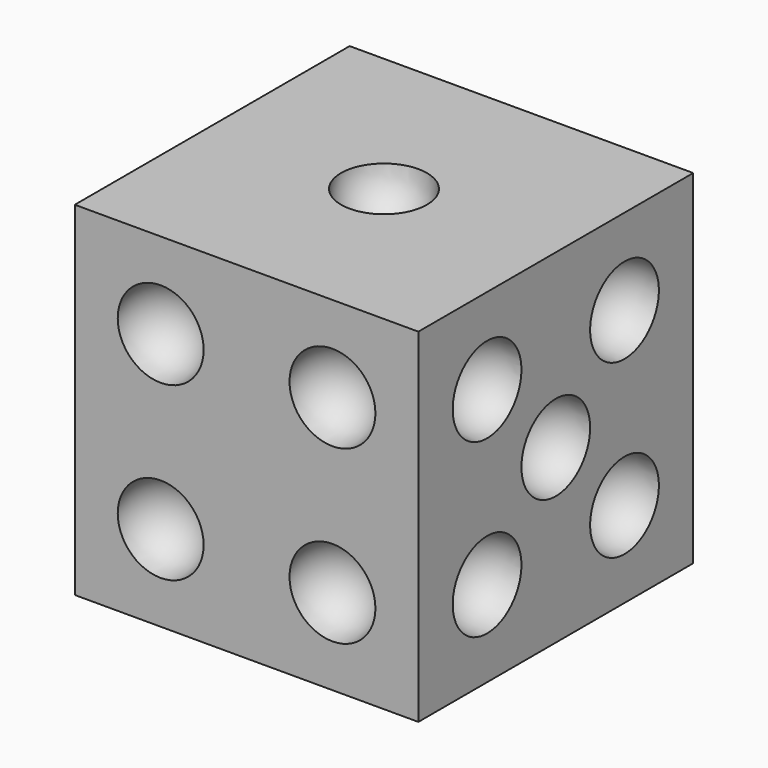
from build123d import *

# Parameters (mm, degrees)
F0_W     = 25.4
F0_H     = 25.4
F1_DEPTH = 25.4


with BuildPart() as f1:
    # F0 (on Top) → F1 (new body)
    with BuildSketch(Plane.XY):
        Rectangle(F0_W, F0_H)
    extrude(amount=F1_DEPTH)

    # F2 (on face) → F3 (revolve, cut)
    with BuildSketch(Plane.XY.offset(25.4)):
        with BuildLine():
            Line((3.175, 0), (-3.175, 0))
            ThreePointArc((-3.175, 0), (0, -3.175), (3.175, 0))
        make_face()
    revolve(axis=Axis((-0.156245, 0, 25.4), (1, 0, 0)), mode=Mode.SUBTRACT)

    # F4 (on face) → F5 (revolve, cut)
    with BuildSketch(Plane(origin=(0, 0, 0), x_dir=(1, 0, 0), z_dir=(0, 0, -1))):
        with BuildLine():
            Line((-4.104936, 4.104936), (-8.595064, 8.595064))
            ThreePointArc((-8.595064, 8.595064), (-8.595064, 4.104936), (-4.104936, 4.104936))
        make_face()
        with BuildLine():
            Line((8.595064, -8.595064), (4.104936, -4.104936))
            ThreePointArc((4.104936, -4.104936), (4.104936, -8.595064), (8.595064, -8.595064))
        make_face()
    revolve(axis=Axis((6.35, 6.35, 0), (0.707107, 0.707107, 0)), mode=Mode.SUBTRACT)

    # F6 (on face) → F7 (revolve, cut)
    with BuildSketch(Plane(origin=(0, 12.7, 0), x_dir=(-1, 0, 0), z_dir=(0, 1, 0))):
        with BuildLine():
            Line((-4.104936, 16.804936), (-8.595064, 21.295064))
            ThreePointArc((-8.595064, 21.295064), (-8.595064, 16.804936), (-4.104936, 16.804936))
        make_face()
        with BuildLine():
            Line((2.245064, 10.454936), (-2.245064, 14.945064))
            ThreePointArc((-2.245064, 14.945064), (-2.245064, 10.454936), (2.245064, 10.454936))
        make_face()
        with BuildLine():
            Line((8.595064, 4.104936), (4.104936, 8.595064))
            ThreePointArc((4.104936, 8.595064), (4.104936, 4.104936), (8.595064, 4.104936))
        make_face()
    revolve(axis=Axis((0, 12.7, 12.7), (-0.707107, 0, -0.707107)), mode=Mode.SUBTRACT)

    # F8 (on face) → F9 (revolve, cut)
    with BuildSketch(Plane.XZ.offset(12.7)):
        with BuildLine():
            ThreePointArc((3.175, 6.35), (6.35, 3.175), (9.525, 6.35))
            Line((9.525, 6.35), (3.175, 6.35))
        make_face()
        with BuildLine():
            Line((-3.175, 6.35), (-9.525, 6.35))
            ThreePointArc((-9.525, 6.35), (-6.35, 3.175), (-3.175, 6.35))
        make_face()
    revolve(axis=Axis((0, -12.7, 6.35), (1, 0, 0)), mode=Mode.SUBTRACT)

    # F8 (on face) → F10 (revolve, cut)
    with BuildSketch(Plane.XZ.offset(12.7)):
        with BuildLine():
            Line((-9.525, 19.05), (-3.175, 19.05))
            ThreePointArc((-3.175, 19.05), (-6.35, 22.225), (-9.525, 19.05))
        make_face()
        with BuildLine():
            ThreePointArc((9.525, 19.05), (6.35, 22.225), (3.175, 19.05))
            Line((3.175, 19.05), (9.525, 19.05))
        make_face()
    revolve(axis=Axis((0, -12.7, 19.05), (-1, 0, 0)), mode=Mode.SUBTRACT)

    # F11 (on face) → F12 (revolve, cut)
    with BuildSketch(Plane.YZ.offset(12.7)):
        with BuildLine():
            Line((-4.104936, 16.804936), (-8.595064, 21.295064))
            ThreePointArc((-8.595064, 21.295064), (-8.595064, 16.804936), (-4.104936, 16.804936))
        make_face()
        with BuildLine():
            Line((2.245064, 10.454936), (-2.245064, 14.945064))
            ThreePointArc((-2.245064, 14.945064), (-2.245064, 10.454936), (2.245064, 10.454936))
        make_face()
        with BuildLine():
            Line((8.595064, 4.104936), (4.104936, 8.595064))
            ThreePointArc((4.104936, 8.595064), (4.104936, 4.104936), (8.595064, 4.104936))
        make_face()
    revolve(axis=Axis((12.7, 0, 12.7), (0, 0.707107, -0.707107)), mode=Mode.SUBTRACT)

    # F11 (on face) → F13 (revolve, cut)
    with BuildSketch(Plane.YZ.offset(12.7)):
        with BuildLine():
            Line((-4.104936, 8.595064), (-8.595064, 4.104936))
            ThreePointArc((-8.595064, 4.104936), (-4.104936, 4.104936), (-4.104936, 8.595064))
        make_face()
        with BuildLine():
            Line((8.595064, 21.295064), (4.104936, 16.804936))
            ThreePointArc((4.104936, 16.804936), (8.595064, 16.804936), (8.595064, 21.295064))
        make_face()
    revolve(axis=Axis((12.7, 6.35, 19.05), (0, -0.707107, -0.707107)), mode=Mode.SUBTRACT)

    # F14 (on face) → F15 (revolve, cut)
    with BuildSketch(Plane(origin=(-12.7, 0, 0), x_dir=(0, -1, 0), z_dir=(-1, 0, 0))):
        with BuildLine():
            Line((6.35, 6.985), (6.35, 0.635))
            ThreePointArc((6.35, 0.635), (9.525, 3.81), (6.35, 6.985))
        make_face()
        with BuildLine():
            Line((6.35, 15.802645), (6.35, 9.452645))
            ThreePointArc((6.35, 9.452645), (9.525, 12.627645), (6.35, 15.802645))
        make_face()
        with BuildLine():
            Line((6.35, 24.765), (6.35, 18.415))
            ThreePointArc((6.35, 18.415), (9.525, 21.59), (6.35, 24.765))
        make_face()
    revolve(axis=Axis((-12.7, -6.35, 15.144984), (0, 0, 1)), mode=Mode.SUBTRACT)

    # F14 (on face) → F16 (revolve, cut)
    with BuildSketch(Plane(origin=(-12.7, 0, 0), x_dir=(0, -1, 0), z_dir=(-1, 0, 0))):
        with BuildLine():
            ThreePointArc((-6.35, 6.985), (-9.525, 3.81), (-6.35, 0.635))
            Line((-6.35, 0.635), (-6.35, 6.985))
        make_face()
        with BuildLine():
            ThreePointArc((-6.35, 15.802645), (-9.525, 12.627645), (-6.35, 9.452645))
            Line((-6.35, 9.452645), (-6.35, 15.802645))
        make_face()
        with BuildLine():
            Line((-6.35, 18.415), (-6.35, 24.765))
            ThreePointArc((-6.35, 24.765), (-9.525, 21.59), (-6.35, 18.415))
        make_face()
    revolve(axis=Axis((-12.7, 6.35, 15.371381), (0, 0, 1)), mode=Mode.SUBTRACT)


solid = f1.part
